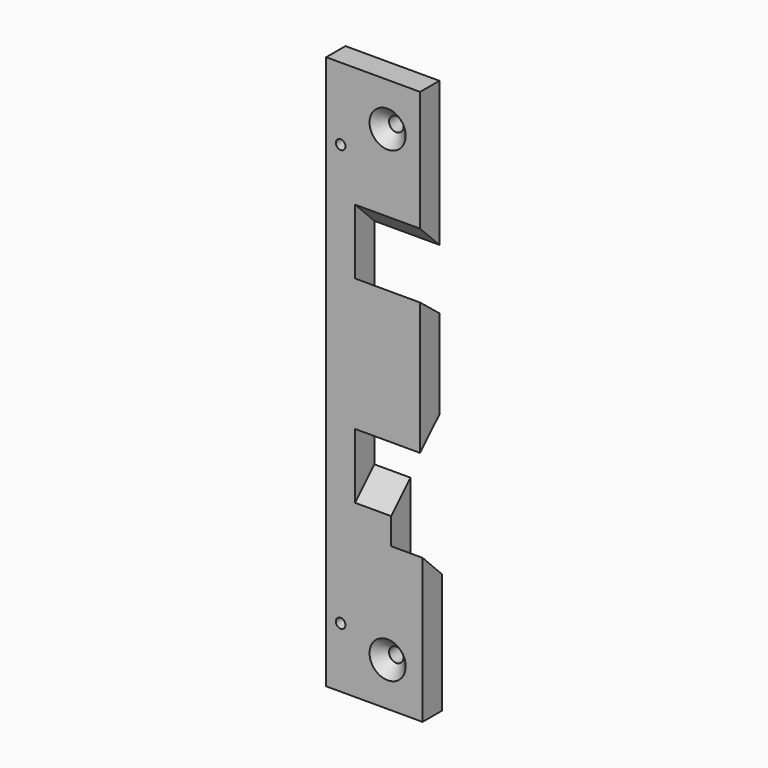
from build123d import *

# Parameters (mm, degrees)
F1_DEPTH        = 5
F4_DEPTH        = 13.5
F6_DEPTH        = 7.5
F8_DEPTH        = 6.5
F10_D           = 3
F10_CSINK_D     = 7.5
F10_CSINK_ANGLE = 90
F12_D           = 2
F12_CSINK_D     = 5
F12_CSINK_ANGLE = 90


with BuildPart() as f1:
    # F0 (on Front) → F1 (new body)
    with BuildSketch(Plane.XZ):
        Polygon((19.12546, 114.327021), (-0.37454, 114.327021), (-0.37454, -0.672979), (19.62546, -0.672979), (19.62546, 29.327021), (13.12546, 29.327021), (13.12546, 39.827021), (5.62546, 39.827021), (5.62546, 48.327021), (19.12546, 48.327021), (19.12546, 75.827021), (5.62546, 75.827021), (5.62546, 84.327021), (19.12546, 84.327021), align=None)
    extrude(amount=F1_DEPTH)

    # F2 (on face) + F3 (on face) → F4 (cut)
    with BuildSketch(Plane.YZ.offset(19.12546)):
        Polygon((-5, 84.327021), (0, 84.327021), (-5, 89.327021), align=None)
    with BuildSketch(Plane.YZ.offset(19.12546)):
        Polygon((0, 75.827021), (-5, 75.827021), (0, 71.834676), align=None)
        Polygon((0, 53.327021), (-5, 48.327021), (0, 48.327021), align=None)
    extrude(amount=-F4_DEPTH, mode=Mode.SUBTRACT)

    # F5 (on face) → F6 (cut)
    with BuildSketch(Plane.YZ.offset(13.12546)):
        Polygon((-5, 34.827021), (0, 39.827021), (-5, 39.827021), align=None)
    extrude(amount=-F6_DEPTH, mode=Mode.SUBTRACT)

    # F7 (on face) → F8 (cut)
    with BuildSketch(Plane.YZ.offset(19.62546)):
        Polygon((0, 24.327021), (0, 29.327021), (-5, 29.327021), align=None)
    extrude(amount=-F8_DEPTH, mode=Mode.SUBTRACT)

    # F10 (through all)
    with Locations(Plane.XZ.offset(5)):
        with Locations((12.37546, 105.327021), (12.37546, 8.327021)):
            CounterSinkHole(F10_D / 2, F10_CSINK_D / 2, counter_sink_angle=F10_CSINK_ANGLE)

    # F12 (through all)
    with Locations(Plane(origin=(0, 0, 0), x_dir=(-1, 0, 0), z_dir=(0, 1, 0))):
        with Locations((-2.62546, 11.827021), (-2.62546, 99.327021)):
            CounterSinkHole(F12_D / 2, F12_CSINK_D / 2, counter_sink_angle=F12_CSINK_ANGLE)


solid = f1.part
